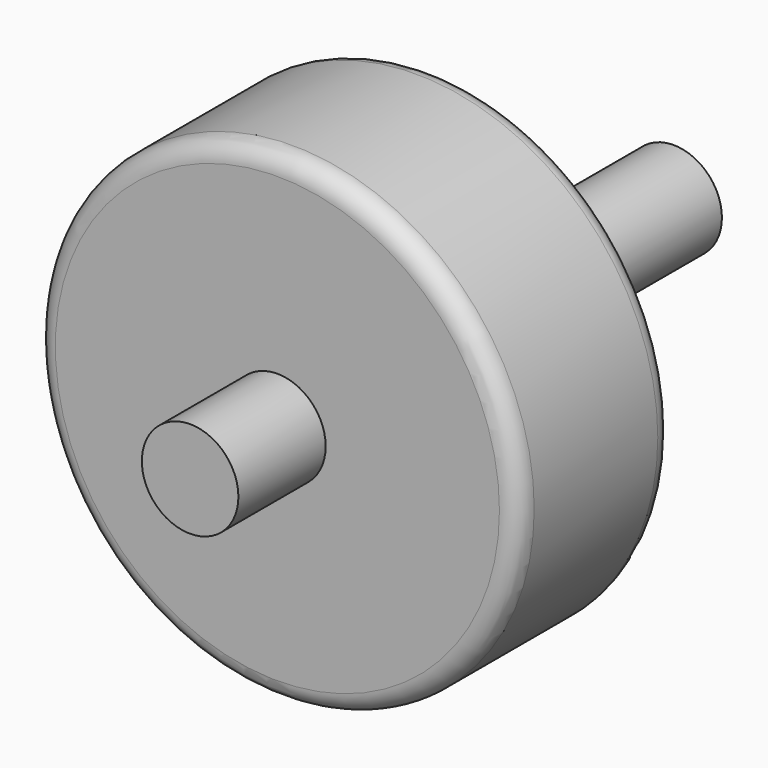
from build123d import *

# Parameters (mm, degrees)
F0_R     = 63.5
F2_DEPTH = 50.8
F1_R     = 12.7
F3_DEPTH = 50.8
F4_R     = 12.7
F5_DEPTH = 79.50153
F6_R     = 5.08
F7_R     = 5.08


with BuildPart() as f2:
    # F0 (on Front) → F2 (new body)
    with BuildSketch(Plane.XZ):
        Circle(F0_R)
    extrude(amount=F2_DEPTH)

    # F1 (on face) → F3 (cut)
    with BuildSketch(Plane.XZ):
        Circle(F1_R)
    extrude(amount=F3_DEPTH, mode=Mode.SUBTRACT)

    # F4 (on Front) → F5 (join, symmetric)
    with BuildSketch(Plane.XZ):
        Circle(F4_R)
    extrude(amount=F5_DEPTH, both=True)

    # F6
    f6_edges = [f2.edges().sort_by_distance(p)[0] for p in [
        (-63.5, -50.8, 0),
    ]]
    fillet(f6_edges, radius=F6_R)

    # F7
    f7_edges = [f2.edges().sort_by_distance(p)[0] for p in [
        (-63.5, 0, 0),
    ]]
    fillet(f7_edges, radius=F7_R)


solid = f2.part
